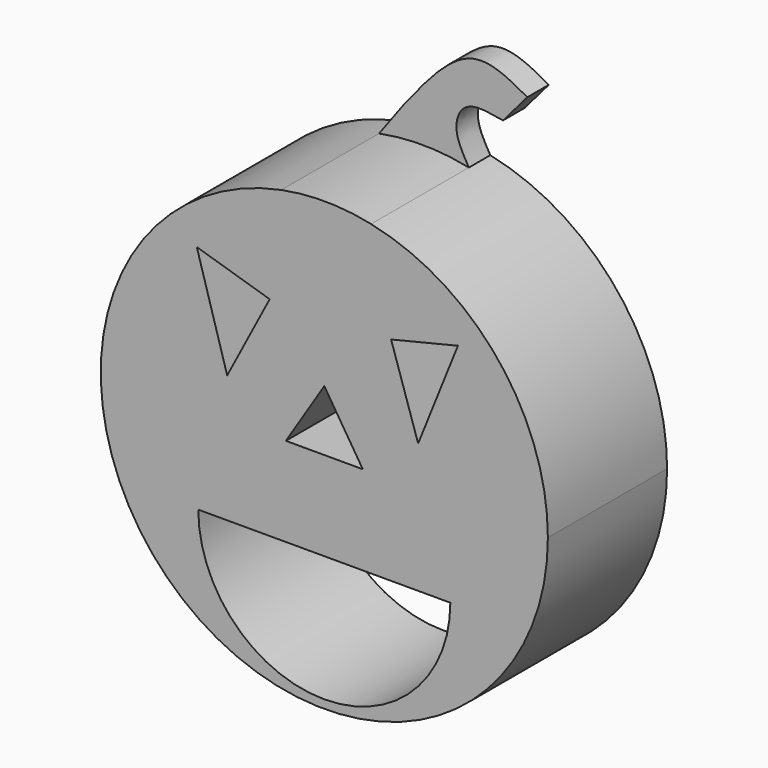
from build123d import *

# Parameters (mm, degrees)
F1_DEPTH = 25.4
F2_DEPTH = 4.572


with BuildPart() as f1:
    # F0 (on Front) → F1 (new body)
    with BuildSketch(Plane.XZ):
        with BuildLine():
            ThreePointArc((-7.3314444091, 37.387964947), (-24.2103486965, -29.4188547703), (38.1, 0))
            ThreePointArc((38.1, 0), (29.6258643924, 23.956589052), (7.9730625194, 37.2564125227))
            ThreePointArc((7.9730625194, 37.2564125227), (0.3274827628, 38.0985925598), (-7.3314444091, 37.387964947))
        make_face()
        with BuildLine():
            ThreePointArc((21.4790297282, -15.1774131634), (0, -36.6564428916), (-21.4790297282, -15.1774131634))
            Line((-21.4790297282, -15.1774131634), (21.4790297282, -15.1774131634))
        make_face(mode=Mode.SUBTRACT)
        Polygon((-6.5538821451, 0), (0, 10.348235436), (6.5538832613, 0), align=None, mode=Mode.SUBTRACT)
        Polygon((-16.5571787067, 6.5538827032), (-21.7312953085, 24.1458841722), (-9.3134132318, 20.3515308814), align=None, mode=Mode.SUBTRACT)
        Polygon((15.9893649439, 6.9261599984), (11.3830587563, 21.0414130949), (22.7661197451, 23.8009441816), align=None, mode=Mode.SUBTRACT)
    extrude(amount=F1_DEPTH)

    # F0 (on Front) → F2 (join)
    with BuildSketch(Plane.XZ):
        with BuildLine():
            ThreePointArc((-7.3314444091, 37.387964947), (0.3274827628, 38.0985925598), (7.9730625194, 37.2564125227))
            add(Edge.make_bspline(
                [(13.7976465038, 46.2221194713), (11.4257742807, 46.6512124753), (7.1192413466, 47.4336244295), (5.0852564917, 42.1322478947), (6.9696530621, 38.9708554427), (7.9730625194, 37.2564125227)],
                knots=[0, 0, 0, 0, 0.361306556, 0.6573311923, 1, 1, 1, 1], degree=3))
            Line((13.7976465038, 46.2221194713), (17.9369442501, 51.0512971987))
            add(Edge.make_bspline(
                [(-3.1044713563, 43.1176461616), (0.7883330685, 48.011810346), (7.7265818936, 56.7348092941), (14.8223562753, 52.7850063276), (17.9369442501, 51.0512971987)],
                knots=[0, 0, 0, 0, 0.5610644015, 1, 1, 1, 1], degree=3))
            add(Edge.make_bspline(
                [(-3.1044713563, 43.1176461616), (-4.5159470278, 41.2204233442), (-5.9199687377, 39.2851877643), (-7.3314444091, 37.387964947)],
                knots=[0, 0, 0, 0, 7.1201508418, 7.1201508418, 7.1201508418, 7.1201508418], degree=3))
        make_face()
    extrude(amount=F2_DEPTH)


solid = f1.part
